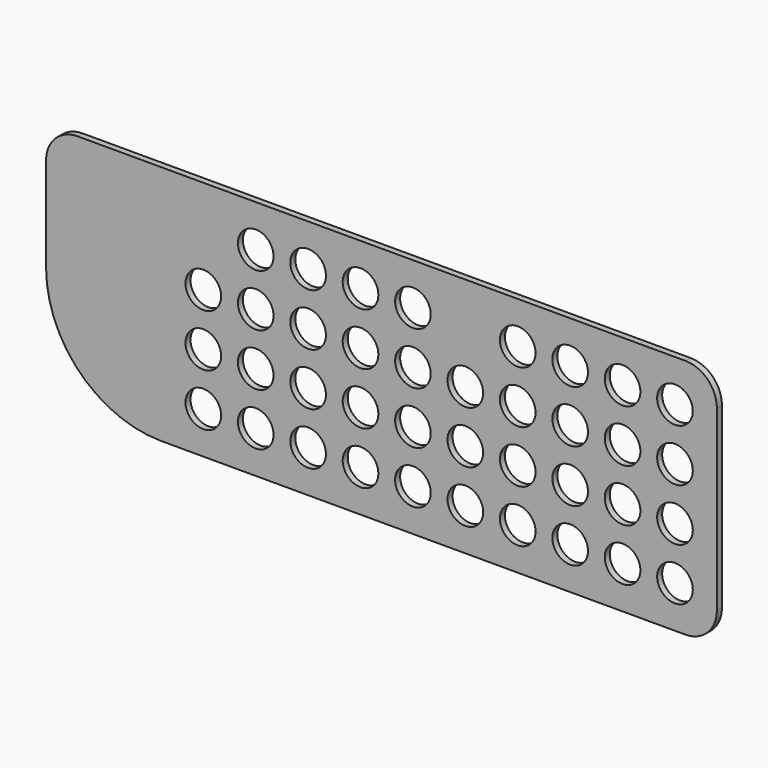
from build123d import *

# Parameters (mm, degrees)
F0_R     = 8.5
F1_DEPTH = 3


with BuildPart() as f1:
    # F0 (on Front) → F1 (new body)
    with BuildSketch(Plane.XZ):
        with BuildLine():
            ThreePointArc((0, 55), (16.109127, 16.109127), (55, 0))
            Line((55, 0), (305, 0))
            ThreePointArc((305, 0), (315.606602, 4.393398), (320, 15))
            Line((320, 15), (320, 100))
            ThreePointArc((320, 100), (315.606602, 110.606602), (305, 115))
            Line((305, 115), (15, 115))
            ThreePointArc((15, 115), (4.393398, 110.606602), (0, 100))
            Line((0, 100), (0, 55))
        make_face()
        with Locations((75, 20)):
            Circle(F0_R, mode=Mode.SUBTRACT)
        with Locations((100, 20)):
            Circle(F0_R, mode=Mode.SUBTRACT)
        with Locations((125, 20)):
            Circle(F0_R, mode=Mode.SUBTRACT)
        with Locations((150, 20)):
            Circle(F0_R, mode=Mode.SUBTRACT)
        with Locations((75, 45)):
            Circle(F0_R, mode=Mode.SUBTRACT)
        with Locations((100, 45)):
            Circle(F0_R, mode=Mode.SUBTRACT)
        with Locations((125, 45)):
            Circle(F0_R, mode=Mode.SUBTRACT)
        with Locations((150, 45)):
            Circle(F0_R, mode=Mode.SUBTRACT)
        with Locations((175, 20)):
            Circle(F0_R, mode=Mode.SUBTRACT)
        with Locations((200, 20)):
            Circle(F0_R, mode=Mode.SUBTRACT)
        with Locations((225, 20)):
            Circle(F0_R, mode=Mode.SUBTRACT)
        with Locations((250, 20)):
            Circle(F0_R, mode=Mode.SUBTRACT)
        with Locations((275, 20)):
            Circle(F0_R, mode=Mode.SUBTRACT)
        with Locations((300, 20)):
            Circle(F0_R, mode=Mode.SUBTRACT)
        with Locations((175, 45)):
            Circle(F0_R, mode=Mode.SUBTRACT)
        with Locations((200, 45)):
            Circle(F0_R, mode=Mode.SUBTRACT)
        with Locations((225, 45)):
            Circle(F0_R, mode=Mode.SUBTRACT)
        with Locations((250, 45)):
            Circle(F0_R, mode=Mode.SUBTRACT)
        with Locations((275, 45)):
            Circle(F0_R, mode=Mode.SUBTRACT)
        with Locations((300, 45)):
            Circle(F0_R, mode=Mode.SUBTRACT)
        with Locations((75, 70)):
            Circle(F0_R, mode=Mode.SUBTRACT)
        with Locations((100, 70)):
            Circle(F0_R, mode=Mode.SUBTRACT)
        with Locations((125, 70)):
            Circle(F0_R, mode=Mode.SUBTRACT)
        with Locations((150, 70)):
            Circle(F0_R, mode=Mode.SUBTRACT)
        with Locations((100, 95)):
            Circle(F0_R, mode=Mode.SUBTRACT)
        with Locations((125, 95)):
            Circle(F0_R, mode=Mode.SUBTRACT)
        with Locations((150, 95)):
            Circle(F0_R, mode=Mode.SUBTRACT)
        with Locations((175, 70)):
            Circle(F0_R, mode=Mode.SUBTRACT)
        with Locations((200, 70)):
            Circle(F0_R, mode=Mode.SUBTRACT)
        with Locations((225, 70)):
            Circle(F0_R, mode=Mode.SUBTRACT)
        with Locations((250, 70)):
            Circle(F0_R, mode=Mode.SUBTRACT)
        with Locations((275, 70)):
            Circle(F0_R, mode=Mode.SUBTRACT)
        with Locations((300, 70)):
            Circle(F0_R, mode=Mode.SUBTRACT)
        with Locations((175, 95)):
            Circle(F0_R, mode=Mode.SUBTRACT)
        with Locations((225, 95)):
            Circle(F0_R, mode=Mode.SUBTRACT)
        with Locations((250, 95)):
            Circle(F0_R, mode=Mode.SUBTRACT)
        with Locations((275, 95)):
            Circle(F0_R, mode=Mode.SUBTRACT)
        with Locations((300, 95)):
            Circle(F0_R, mode=Mode.SUBTRACT)
    extrude(amount=F1_DEPTH)


solid = f1.part
